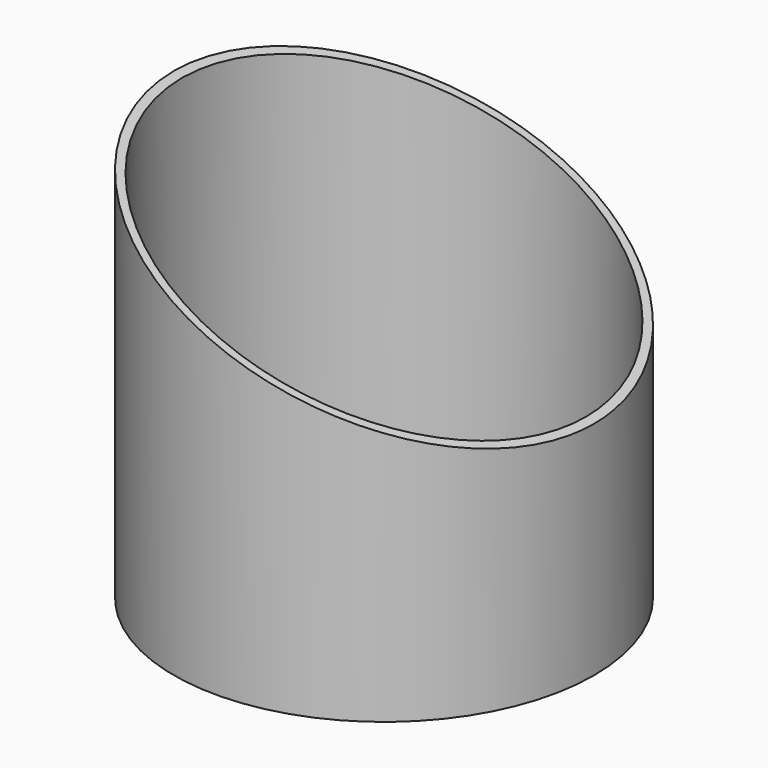
from build123d import *

# Parameters (mm, degrees)
F0_R          = 161.925
F0_R_2        = 155.575
F1_DEPTH      = 304.8
F3_DEPTH      = 161.926
F3_DEPTH_BACK = 161.926


with BuildPart() as f1:
    # F0 (on Top) → F1 (new body)
    with BuildSketch(Plane.XY):
        Circle(F0_R)
        Circle(F0_R_2, mode=Mode.SUBTRACT)
    extrude(amount=F1_DEPTH)

    # F2 (on Front) → F3 (cut, two sides)
    with BuildSketch(Plane.XZ) as f3_sk:
        Polygon((-161.925, 423.6930012703), (-161.925, 304.8), (161.925, 170.6569378255), (165.9864187241, 433.4666728973), align=None)
    extrude(amount=-F3_DEPTH, mode=Mode.SUBTRACT)
    extrude(f3_sk.sketch, amount=F3_DEPTH_BACK, mode=Mode.SUBTRACT)


solid = f1.part
